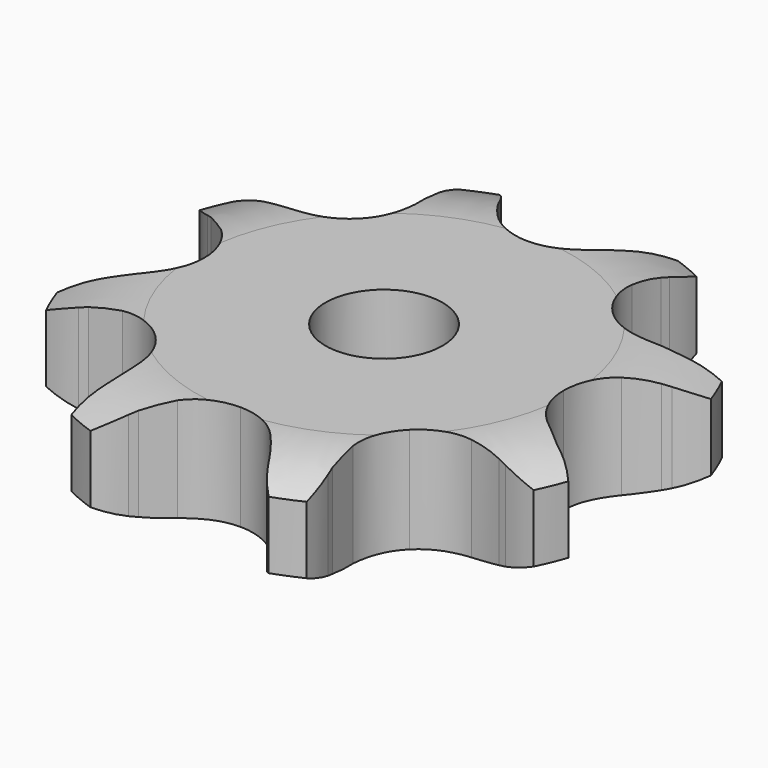
from build123d import *

# Parameters (mm, degrees)
PAD_DEPTH         = 7.2
SKETCH001_R       = 4
POCKET_DEPTH      = 0.001
POCKET_DEPTH_BACK = -7.201


with BuildPart() as part:
    # Sprocket → Pad (new body)
    with BuildSketch(Plane.XY):
        with BuildLine():
            ThreePointArc((-7.691496, 18.568914), (-6.037547, 17.419326), (-4.759071, 15.862856))
            Line((-4.759071, 15.862856), (-4.464, 15.381343))
            ThreePointArc((-4.464, 15.381343), (-3.86334, 14.499155), (-3.180891, 13.6786))
            ThreePointArc((-3.180891, 13.6786), (-1.7376, 12.644353), (0, 12.278975))
            ThreePointArc((0, 12.278975), (1.7376, 12.644353), (3.180891, 13.6786))
            ThreePointArc((3.180891, 13.6786), (3.86334, 14.499155), (4.464, 15.381343))
            Line((4.464, 15.381343), (4.759071, 15.862856))
            ThreePointArc((4.759071, 15.862856), (6.037547, 17.419326), (7.691496, 18.568914))
            ThreePointArc((7.691496, 18.568914), (8.048133, 16.586514), (7.851562, 14.581905))
            Line((7.851562, 14.581905), (7.719727, 14.032776))
            ThreePointArc((7.719727, 14.032776), (7.520658, 12.984245), (7.423001, 11.92146))
            ThreePointArc((7.423001, 11.92146), (7.712239, 10.169576), (8.682546, 8.682546))
            ThreePointArc((8.682546, 8.682546), (10.169576, 7.712239), (11.92146, 7.423001))
            Line((11.92146, 7.423001), (14.032776, 7.719727))
            ThreePointArc((14.032776, 7.719727), (14.306504, 7.78913), (14.581905, 7.851562))
            ThreePointArc((14.581905, 7.851562), (16.586514, 8.048133), (18.568914, 7.691496))
            ThreePointArc((18.568914, 7.691496), (17.419326, 6.037547), (15.862856, 4.759071))
            Line((15.862856, 4.759071), (15.381343, 4.464))
            ThreePointArc((15.381343, 4.464), (14.499155, 3.86334), (13.6786, 3.180891))
            ThreePointArc((13.6786, 3.180891), (12.644353, 1.7376), (12.278975, 0))
            ThreePointArc((12.278975, 0), (12.644353, -1.7376), (13.6786, -3.180891))
            Line((13.6786, -3.180891), (15.381343, -4.464))
            ThreePointArc((15.381343, -4.464), (15.623973, -4.608479), (15.862856, -4.759071))
            ThreePointArc((15.862856, -4.759071), (17.419326, -6.037547), (18.568914, -7.691496))
            ThreePointArc((18.568914, -7.691496), (16.586514, -8.048133), (14.581905, -7.851562))
            Line((14.581905, -7.851562), (14.032776, -7.719727))
            ThreePointArc((14.032776, -7.719727), (12.984245, -7.520658), (11.92146, -7.423001))
            ThreePointArc((11.92146, -7.423001), (10.169576, -7.712239), (8.682546, -8.682546))
            ThreePointArc((8.682546, -8.682546), (7.712239, -10.169576), (7.423001, -11.92146))
            Line((7.423001, -11.92146), (7.719727, -14.032776))
            ThreePointArc((7.719727, -14.032776), (7.78913, -14.306504), (7.851562, -14.581905))
            ThreePointArc((7.851562, -14.581905), (8.048133, -16.586514), (7.691496, -18.568914))
            ThreePointArc((7.691496, -18.568914), (6.037547, -17.419326), (4.759071, -15.862856))
            Line((4.759071, -15.862856), (4.464, -15.381343))
            ThreePointArc((4.464, -15.381343), (3.86334, -14.499155), (3.180891, -13.6786))
            ThreePointArc((3.180891, -13.6786), (1.7376, -12.644353), (0, -12.278975))
            ThreePointArc((0, -12.278975), (-1.7376, -12.644353), (-3.180891, -13.6786))
            Line((-3.180891, -13.6786), (-4.464, -15.381343))
            ThreePointArc((-4.464, -15.381343), (-4.608479, -15.623973), (-4.759071, -15.862856))
            ThreePointArc((-4.759071, -15.862856), (-6.037547, -17.419326), (-7.691496, -18.568914))
            ThreePointArc((-7.691496, -18.568914), (-8.048133, -16.586514), (-7.851562, -14.581905))
            Line((-7.851562, -14.581905), (-7.719727, -14.032776))
            ThreePointArc((-7.719727, -14.032776), (-7.520658, -12.984245), (-7.423001, -11.92146))
            ThreePointArc((-7.423001, -11.92146), (-7.712239, -10.169576), (-8.682546, -8.682546))
            ThreePointArc((-8.682546, -8.682546), (-10.169576, -7.712239), (-11.92146, -7.423001))
            Line((-11.92146, -7.423001), (-14.032776, -7.719727))
            ThreePointArc((-14.032776, -7.719727), (-14.306504, -7.78913), (-14.581905, -7.851562))
            ThreePointArc((-14.581905, -7.851562), (-16.586514, -8.048133), (-18.568914, -7.691496))
            ThreePointArc((-18.568914, -7.691496), (-17.419326, -6.037547), (-15.862856, -4.759071))
            Line((-15.862856, -4.759071), (-15.381343, -4.464))
            ThreePointArc((-15.381343, -4.464), (-14.499155, -3.86334), (-13.6786, -3.180891))
            ThreePointArc((-13.6786, -3.180891), (-12.644353, -1.7376), (-12.278975, 0))
            ThreePointArc((-12.278975, 0), (-12.644353, 1.7376), (-13.6786, 3.180891))
            Line((-13.6786, 3.180891), (-15.381343, 4.464))
            ThreePointArc((-15.381343, 4.464), (-15.623973, 4.608479), (-15.862856, 4.759071))
            ThreePointArc((-15.862856, 4.759071), (-17.419326, 6.037547), (-18.568914, 7.691496))
            ThreePointArc((-18.568914, 7.691496), (-16.586514, 8.048133), (-14.581905, 7.851562))
            Line((-14.581905, 7.851562), (-14.032776, 7.719727))
            ThreePointArc((-14.032776, 7.719727), (-12.984245, 7.520658), (-11.92146, 7.423001))
            ThreePointArc((-11.92146, 7.423001), (-10.169576, 7.712239), (-8.682546, 8.682546))
            ThreePointArc((-8.682546, 8.682546), (-7.712239, 10.169576), (-7.423001, 11.92146))
            Line((-7.423001, 11.92146), (-7.719727, 14.032776))
            ThreePointArc((-7.719727, 14.032776), (-7.78913, 14.306504), (-7.851562, 14.581905))
            ThreePointArc((-7.851562, 14.581905), (-8.048133, 16.586514), (-7.691496, 18.568914))
        make_face()
    extrude(amount=PAD_DEPTH)

    # Sketch → Groove (revolve, cut)
    with BuildSketch(Plane.XZ):
        with BuildLine():
            Line((12.833431, 0), (18.5, 0))
            Line((24.166569, 0), (18.5, 0))
            Line((24.166569, 7.2), (24.166569, 0))
            Line((18.5, 7.2), (24.166569, 7.2))
            Line((12.833431, 7.2), (18.5, 7.2))
            ThreePointArc((18.5, 5.9), (15.74032, 6.870833), (12.833431, 7.2))
            Line((18.5, 1.3), (18.5, 5.9))
            ThreePointArc((12.833431, 0), (15.74032, 0.329167), (18.5, 1.3))
        make_face()
    revolve(axis=Axis((0, 0, 0), (0, 0, 1)), mode=Mode.SUBTRACT)

    # Sketch001 → Pocket (cut, two sides)
    with BuildSketch(Plane.XY) as pocket_sk:
        Circle(SKETCH001_R)
    extrude(amount=-POCKET_DEPTH, mode=Mode.SUBTRACT)
    extrude(pocket_sk.sketch, amount=-POCKET_DEPTH_BACK, mode=Mode.SUBTRACT)


solid = part.part
